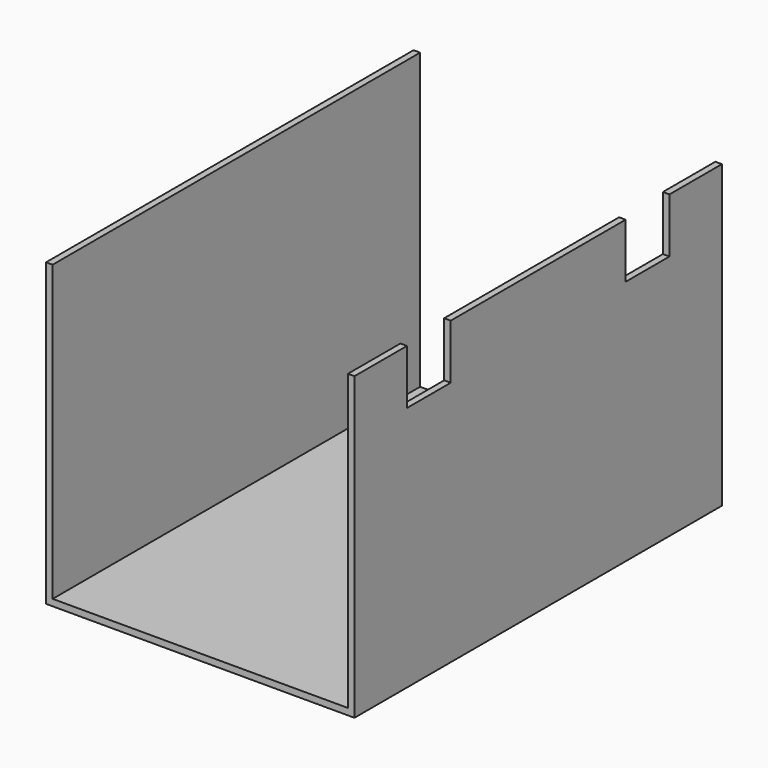
from build123d import *

# Parameters (mm, degrees)
F0_W     = 54
F0_H     = 84
F1_DEPTH = 1.2
F0_W_2   = 1.2
F2_DEPTH = 55
F3_W     = 10
F3_H     = 10
F4_DEPTH = 25


with BuildPart() as f1:
    # F0 (on Top) → F1 (new body)
    with BuildSketch(Plane.XY):
        Rectangle(F0_W, F0_H)
    extrude(amount=F1_DEPTH)

    # F0 (on Top) → F2 (join)
    with BuildSketch(Plane.XY):
        with Locations((-27.6, 0)):
            Rectangle(F0_W_2, F0_H)
        with Locations((27.6, 0)):
            Rectangle(F0_W_2, F0_H)
    extrude(amount=F2_DEPTH)

    # F3 (on face) → F4 (cut)
    with BuildSketch(Plane.YZ.offset(28.2)):
        with Locations((-25, 50)):
            Rectangle(F3_W, F3_H)
        with Locations((25, 50)):
            Rectangle(F3_W, F3_H)
    extrude(amount=-F4_DEPTH, mode=Mode.SUBTRACT)


solid = f1.part
